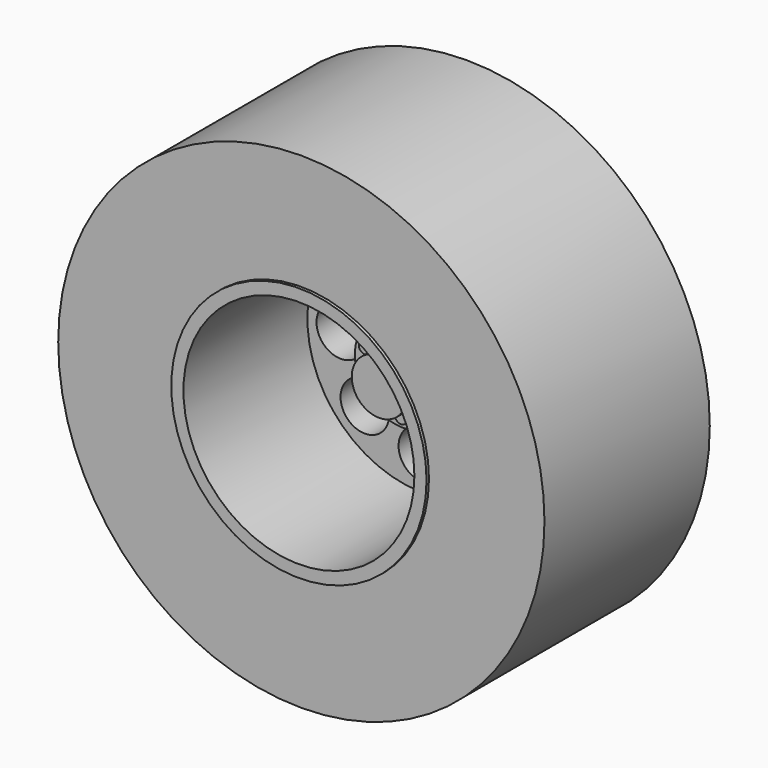
from build123d import *

# Parameters (mm, degrees)
F0_R      = 20
F1_DEPTH  = 17
F2_R      = 18.5
F3_DEPTH  = 15.5
F4_R      = 10.25
F5_DEPTH  = 14
F6_R      = 9.5
F7_DEPTH  = 12.5
F8_R      = 10.5
F8_R_2    = 9.5
F9_DEPTH  = 0.25
F10_R     = 2
F11_DEPTH = 5
F10_R_2   = 3.25
F12_DEPTH = 9.5
F13_R     = 1.75
F14_DEPTH = 9
F15_R     = 4
F16_DEPTH = 2
F17_R     = 0.5
F18_DEPTH = 0.25
F17_R_2   = 2.25
F19_DEPTH = 2.5


with BuildPart() as f1:
    # F0 (on Front) → F1 (new body)
    with BuildSketch(Plane.XZ):
        Circle(F0_R)
    extrude(amount=-F1_DEPTH)

    # F2 (on face) → F3 (cut)
    with BuildSketch(Plane(origin=(0, 17, 0), x_dir=(-1, 0, 0), z_dir=(0, 1, 0))):
        Circle(F2_R)
    extrude(amount=-F3_DEPTH, mode=Mode.SUBTRACT)

    # F4 (on face) → F5 (join)
    with BuildSketch(Plane(origin=(0, 1.5, 0), x_dir=(-1, 0, 0), z_dir=(0, 1, 0))):
        Circle(F4_R)
    extrude(amount=F5_DEPTH)

    # F6 (on face) → F7 (cut)
    with BuildSketch(Plane.XZ):
        Circle(F6_R)
    extrude(amount=-F7_DEPTH, mode=Mode.SUBTRACT)

    # F8 (on face) → F9 (join)
    with BuildSketch(Plane.XZ):
        Circle(F8_R)
        Circle(F8_R_2, mode=Mode.SUBTRACT)
    extrude(amount=F9_DEPTH)

    # F10 (on face) → F11 (cut)
    with BuildSketch(Plane(origin=(0, 15.5, 0), x_dir=(-1, 0, 0), z_dir=(0, 1, 0))):
        with Locations((0, 6.75)):
            Circle(F10_R)
        with Locations((4.772970773, 4.772970773)):
            Circle(F10_R)
        with Locations((6.75, 0)):
            Circle(F10_R)
        with Locations((4.772970773, -4.772970773)):
            Circle(F10_R)
        with Locations((0, -6.75)):
            Circle(F10_R)
        with Locations((-4.772970773, -4.772970773)):
            Circle(F10_R)
        with Locations((-6.75, 0)):
            Circle(F10_R)
        with Locations((-4.772970773, 4.772970773)):
            Circle(F10_R)
    extrude(amount=-F11_DEPTH, mode=Mode.SUBTRACT)

    # F10 (on face) → F12 (join)
    with BuildSketch(Plane(origin=(0, 15.5, 0), x_dir=(-1, 0, 0), z_dir=(0, 1, 0))):
        Circle(F10_R_2)
    extrude(amount=F12_DEPTH)

    # F13 (on face) → F14 (cut)
    with BuildSketch(Plane(origin=(0, 25, 0), x_dir=(-1, 0, 0), z_dir=(0, 1, 0))):
        Circle(F13_R)
    extrude(amount=-F14_DEPTH, mode=Mode.SUBTRACT)

    # F15 (on face) → F16 (join)
    with BuildSketch(Plane.XZ.offset(-12.5)):
        Circle(F15_R)
    extrude(amount=F16_DEPTH)

    # F17 (on face) → F18 (join)
    with BuildSketch(Plane.XZ.offset(-10.5)):
        with Locations((-2.9720516134, 0.9656781074)):
            Circle(F17_R)
        with Locations((-1.8368289134, 2.5281781074)):
            Circle(F17_R)
        with Locations((1.8368289134, 2.5281781074)):
            Circle(F17_R)
        with Locations((0, 3.125)):
            Circle(F17_R)
        with Locations((2.9720516134, -0.9656781074)):
            Circle(F17_R)
        with Locations((1.8368289134, -2.5281781074)):
            Circle(F17_R)
        with Locations((2.9720516134, 0.9656781074)):
            Circle(F17_R)
        with Locations((0, -3.125)):
            Circle(F17_R)
        with Locations((-2.9720516134, -0.9656781074)):
            Circle(F17_R)
        with Locations((-1.8368289134, -2.5281781074)):
            Circle(F17_R)
    extrude(amount=F18_DEPTH)

    # F17 (on face) → F19 (join)
    with BuildSketch(Plane.XZ.offset(-10.5)):
        Circle(F17_R_2)
    extrude(amount=F19_DEPTH)


solid = f1.part
